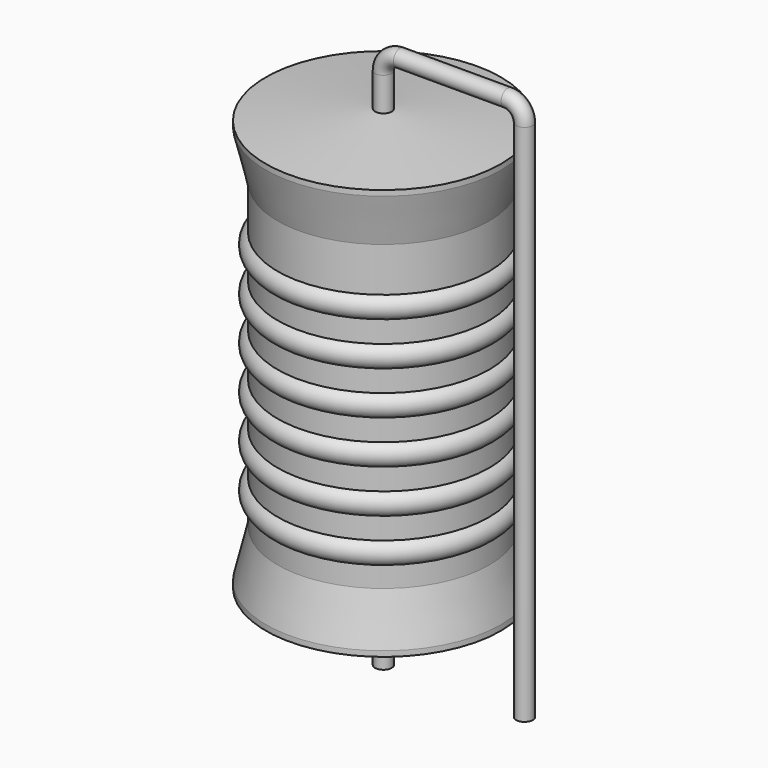
from build123d import *

# Parameters (mm, degrees)
SKETCH_R = 0.45


with BuildPart() as sweep_body:
    # Sweep: sweep along a path in Sketch001
    with BuildLine(Plane.XZ) as sweep_path:
        Line((0, -3), (0, 25.27))
        ThreePointArc((0, 25.27), (0.263601, 25.906393), (0.899991, 26.17))
        Line((0.899991, 26.17), (6.72, 26.17))
        ThreePointArc((6.72, 26.17), (7.356396, 25.906396), (7.62, 25.27))
        Line((7.62, 25.27), (7.62, -3))
    # Sketch → Sweep (sweep)
    with BuildSketch(Plane.XY.offset(-2)):
        Circle(SKETCH_R)
    sweep(path=sweep_path.line)


with BuildPart() as revolution:
    # Sketch002 → Revolution (revolve)
    with BuildSketch(Plane.XZ):
        Polygon((0, 0.1), (0, 23.47), (0.3375, 23.47), (6.35, 22.88575), (6.35, 22.59325), (5.715, 19.9645), (5.715, 3.6055), (6.35, 0.97675), (6.35, 0.68425), (0.3375, 0.1), align=None)
    revolve(axis=Axis((0, 0, 0), (0, 0, 1)))


with BuildPart() as revolution001:
    # Sketch003 → Revolution001 (revolve)
    with BuildSketch(Plane.XZ):
        with BuildLine():
            Line((5.08, 18.6945), (5.08, 3.6055))
            Line((5.08, 3.6055), (5.461, 3.6055))
            Line((5.461, 3.6055), (5.461, 4.6725))
            ThreePointArc((5.461, 4.6725), (6.096, 5.3075), (5.461, 5.9425))
            Line((5.461, 5.9425), (5.461, 7.0095))
            ThreePointArc((5.461, 7.0095), (6.096, 7.6445), (5.461, 8.2795))
            Line((5.461, 8.2795), (5.461, 9.3465))
            ThreePointArc((5.461, 9.3465), (6.096, 9.9815), (5.461, 10.6165))
            Line((5.461, 10.6165), (5.461, 11.6835))
            ThreePointArc((5.461, 11.6835), (6.096, 12.3185), (5.461, 12.9535))
            Line((5.461, 12.9535), (5.461, 14.0205))
            ThreePointArc((5.461, 14.0205), (6.096, 14.6555), (5.461, 15.2905))
            Line((5.461, 15.2905), (5.461, 16.3575))
            ThreePointArc((5.461, 16.3575), (6.096, 16.9925), (5.461, 17.6275))
            Line((5.461, 18.6945), (5.461, 17.6275))
            Line((5.08, 18.6945), (5.461, 18.6945))
        make_face()
    revolve(axis=Axis((0, 0, 0), (0, 0, 1)))


solid = Compound([sweep_body.part, revolution.part, revolution001.part])
